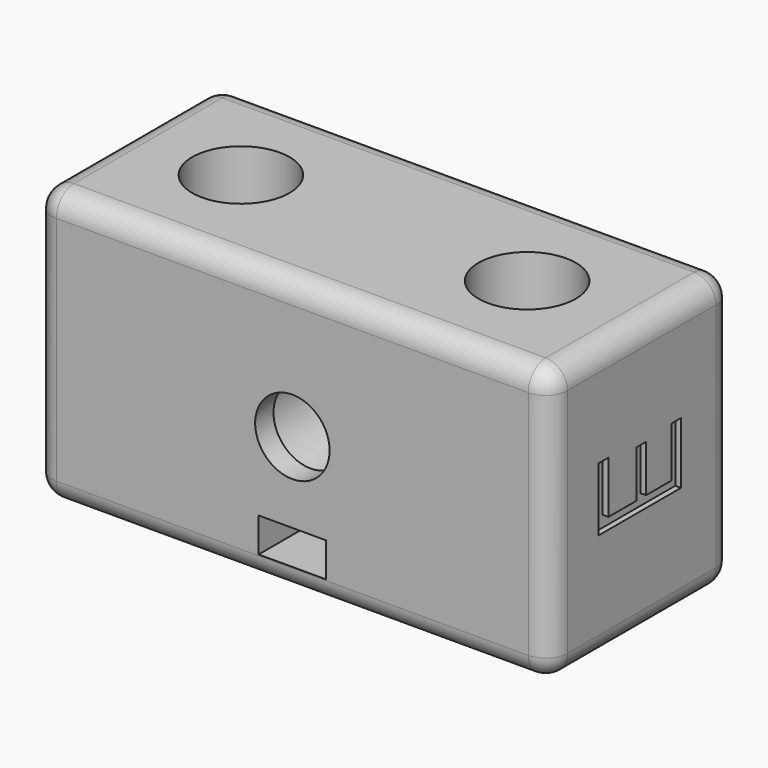
from build123d import *

# Parameters (mm, degrees)
EXTRUDE001_DEPTH = 0.5
PAD001_DEPTH     = 3
SKETCH_W         = 45
SKETCH_H         = 20
SKETCH_R         = 4.25
PAD_DEPTH        = 24
SKETCH001_R      = 3.25
POCKET_DEPTH     = 20.001
SKETCH003_R      = 4.25
POCKET001_DEPTH  = 18
SKETCH004_R      = 1.65
POCKET002_DEPTH  = 7.75
FILLET_R         = 1.9


with BuildPart() as obj1:
    # path2990 → Extrude001 (new body)
    with BuildSketch(Plane(origin=(45, 9.801935, 12.357409), x_dir=(0, -1, 0), z_dir=(1, 0, 0))):
        with BuildLine():
            add(Edge.make_bspline(
                [(4.49398, 2.770757), (-4.49398, 2.770757)],
                knots=[0, 0, 28.94756, 28.94756], degree=1))
            add(Edge.make_bspline(
                [(-4.49398, 2.770757), (-4.49398, -2.598535)],
                knots=[0, 0, 20.9307, 20.9307], degree=1))
            add(Edge.make_bspline(
                [(-4.49398, -2.598535), (-3.433327, -2.598535)],
                knots=[0, 0, 3.41605, 3.41605], degree=1))
            add(Edge.make_bspline(
                [(-3.433327, -2.598535), (-3.433327, 1.788076)],
                knots=[0, 0, 17.09999, 17.09999], degree=1))
            add(Edge.make_bspline(
                [(-3.433327, 1.788076), (-0.680535, 1.788076)],
                knots=[0, 0, 8.86593, 8.86593], degree=1))
            add(Edge.make_bspline(
                [(-0.680535, 1.788076), (-0.680535, -2.319939)],
                knots=[0, 0, 16.01396, 16.01396], degree=1))
            add(Edge.make_bspline(
                [(-0.680535, -2.319939), (0.373986, -2.319939)],
                knots=[0, 0, 3.3963, 3.3963], degree=1))
            add(Edge.make_bspline(
                [(0.373986, -2.319939), (0.373986, 1.788076)],
                knots=[0, 0, 16.01396, 16.01396], degree=1))
            add(Edge.make_bspline(
                [(0.373986, 1.788076), (3.433327, 1.788076)],
                knots=[0, 0, 9.85323, 9.85323], degree=1))
            add(Edge.make_bspline(
                [(3.433327, 1.788076), (3.433327, -2.770757)],
                knots=[0, 0, 17.77135, 17.77135], degree=1))
            add(Edge.make_bspline(
                [(3.433327, -2.770757), (4.49398, -2.770757)],
                knots=[0, 0, 3.41605, 3.41605], degree=1))
            add(Edge.make_bspline(
                [(4.49398, -2.770757), (4.49398, 2.770757)],
                knots=[0, 0, 21.60206, 21.60206], degree=1))
        make_face()
    extrude(amount=-EXTRUDE001_DEPTH)


with BuildPart() as obj2:
    # Sketch005 → Pad001 (new body)
    with BuildSketch(Plane(origin=(22.5, 13.5, 5), x_dir=(1, 0, 0), z_dir=(0, 0, -1))):
        Polygon((-2.95, 14.703183), (-2.95, 1.703183), (0, 0), (2.95, 1.703183), (2.95, 14.703183), align=None)
    extrude(amount=PAD001_DEPTH)


with BuildPart() as obj3:
    # Sketch → Pad (new body)
    with BuildSketch(Plane.XY):
        with Locations((22.5, 10)):
            Rectangle(SKETCH_W, SKETCH_H)
        with Locations((10, 10)):
            Circle(SKETCH_R, mode=Mode.SUBTRACT)
        with Locations((35, 10)):
            Circle(SKETCH_R, mode=Mode.SUBTRACT)
    extrude(amount=PAD_DEPTH)

    # Sketch001 → Pocket (cut, through all)
    with BuildSketch(Plane.XZ):
        with Locations((22.5, 12)):
            Circle(SKETCH001_R)
    extrude(amount=-POCKET_DEPTH, mode=Mode.SUBTRACT)

    # Sketch003 → Pocket001 (cut)
    with BuildSketch(Plane(origin=(0, 20, 0), x_dir=(-1, 0, 0), z_dir=(0, 1, 0))):
        with Locations((-22.5, 12)):
            Circle(SKETCH003_R)
    extrude(amount=-POCKET001_DEPTH, mode=Mode.SUBTRACT)

    # Sketch004 → Pocket002 (cut)
    with BuildSketch(Plane(origin=(0, 0, 0), x_dir=(1, 0, 0), z_dir=(0, 0, -1))):
        with Locations((22.5, -10)):
            Circle(SKETCH004_R)
    extrude(amount=-POCKET002_DEPTH, mode=Mode.SUBTRACT)

    # Cut: cut obj2
    add(obj2.part, mode=Mode.SUBTRACT)

    # Cut001: cut obj1
    add(obj1.part, mode=Mode.SUBTRACT)

    # Fillet
    fillet_edges = [obj3.edges().sort_by_distance(p)[0] for p in [
        (45, 20, 12),
        (22.5, 20, 0),
        (22.5, 20, 24),
        (0, 20, 12),
        (45, 10, 0),
        (45, 10, 24),
        (45, 0, 12),
        (0, 10, 0),
        (22.5, 0, 0),
        (0, 10, 24),
        (22.5, 0, 24),
        (0, 0, 12),
    ]]
    fillet(fillet_edges, radius=FILLET_R)


solid = obj3.part
